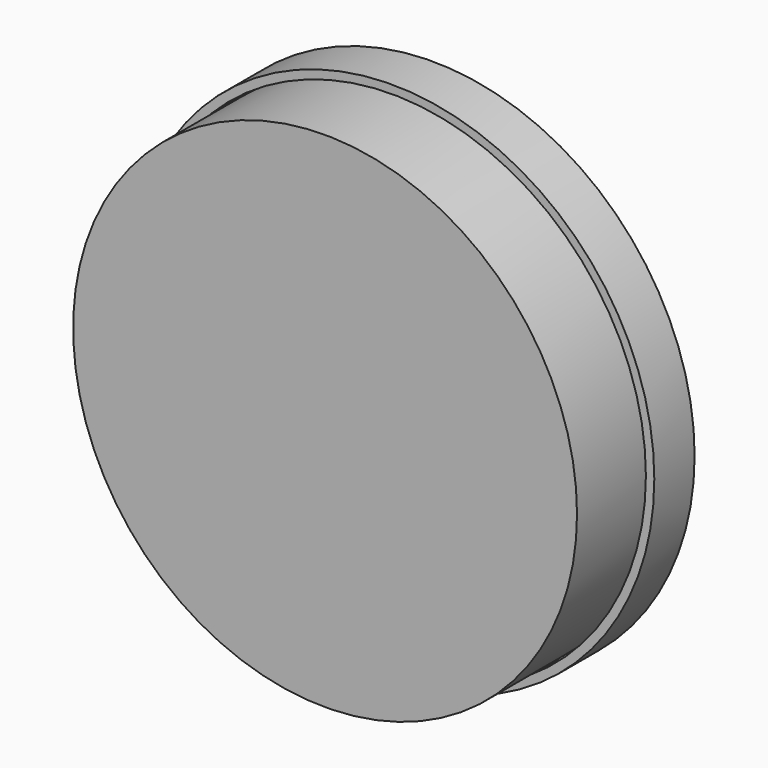
from build123d import *

# Parameters (mm, degrees)
F0_R     = 75.5
F0_R_2   = 20
F1_DEPTH = 10
F0_R_3   = 78
F2_DEPTH = 15
F3_R     = 75
F3_R_2   = 20
F4_DEPTH = 30


with BuildPart() as f1:
    # F0 (on Front) → F1 (new body)
    with BuildSketch(Plane.XZ):
        Circle(F0_R)
        with Locations((-36.2583191526, -33.3033913191)):
            Circle(F0_R_2, mode=Mode.SUBTRACT)
        with Locations((36.2583191526, -33.3033913191)):
            Circle(F0_R_2, mode=Mode.SUBTRACT)
        with Locations((-36.2583191526, 33.3033913191)):
            Circle(F0_R_2, mode=Mode.SUBTRACT)
        Circle(F0_R_2, mode=Mode.SUBTRACT)
        with Locations((36.2583191526, 33.3033913191)):
            Circle(F0_R_2, mode=Mode.SUBTRACT)
    extrude(amount=F1_DEPTH)

    # F0 (on Front) → F2 (join)
    with BuildSketch(Plane.XZ):
        Circle(F0_R_3)
        Circle(F0_R, mode=Mode.SUBTRACT)
    extrude(amount=F2_DEPTH)


with BuildPart() as f4:
    # F3 (on face) → F4 (new body)
    with BuildSketch(Plane.XZ.offset(10)):
        Circle(F3_R)
        with Locations((-36.2583191526, -33.3033913191)):
            Circle(F3_R_2, mode=Mode.SUBTRACT)
        with Locations((36.2583191526, -33.3033913191)):
            Circle(F3_R_2, mode=Mode.SUBTRACT)
        with Locations((-36.2583191526, 33.3033913191)):
            Circle(F3_R_2, mode=Mode.SUBTRACT)
        Circle(F3_R_2, mode=Mode.SUBTRACT)
        with Locations((36.2583191526, 33.3033913191)):
            Circle(F3_R_2, mode=Mode.SUBTRACT)
        with Locations((36.2583191526, 33.3033913191)):
            Circle(F3_R_2)
        with Locations((-36.2583191526, 33.3033913191)):
            Circle(F3_R_2)
        with Locations((-36.2583191526, -33.3033913191)):
            Circle(F3_R_2)
        with Locations((36.2583191526, -33.3033913191)):
            Circle(F3_R_2)
        Circle(F3_R_2)
    extrude(amount=F4_DEPTH)


solid = Compound([f1.part, f4.part])
